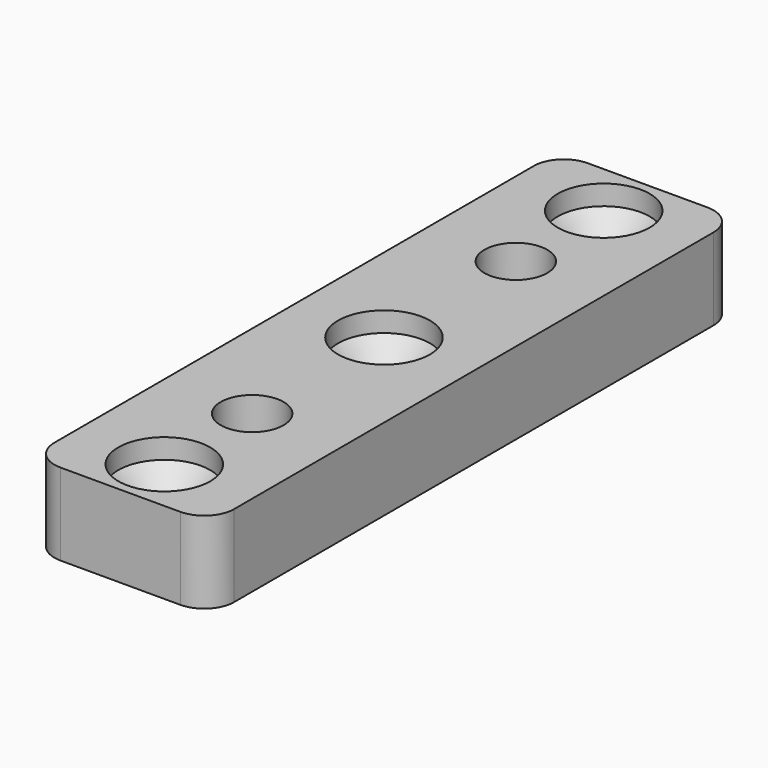
from build123d import *

# Parameters (mm, degrees)
SKETCH009_R   = 2.5
PAD009_DEPTH  = 4.2
SKETCH010_R   = 2.5
SKETCH010_R_2 = 3.15
PAD010_DEPTH  = 4
SKETCH011_R   = 4.6
HOLE_DEPTH    = 2
HOLE_TIPS_R   = 4.6


with BuildPart() as part:
    # Sketch009 → Pad009 (new body)
    with BuildSketch(Plane.XY):
        with BuildLine():
            Line((-9, 30), (-9, -30))
            ThreePointArc((-9, -30), (-8.12132, -32.12132), (-6, -33))
            Line((-6, -33), (6, -33))
            ThreePointArc((6, -33), (8.12132, -32.12132), (9, -30))
            Line((9, -30), (9, 30))
            ThreePointArc((9, 30), (8.12132, 32.12132), (6, 33))
            Line((6, 33), (-6, 33))
            ThreePointArc((-6, 33), (-8.12132, 32.12132), (-9, 30))
        make_face()
        with Locations((0, 27.5)):
            Circle(SKETCH009_R, mode=Mode.SUBTRACT)
        with Locations((0, -27.5)):
            Circle(SKETCH009_R, mode=Mode.SUBTRACT)
        Circle(SKETCH009_R, mode=Mode.SUBTRACT)
        Polygon((3.002221, 11.3), (6.004443, 16.5), (3.002221, 21.7), (-3.002221, 21.7), (-6.004443, 16.5), (-3.002221, 11.3), align=None, mode=Mode.SUBTRACT)
        Polygon((-3.002221, -21.7), (3.002221, -21.7), (6.004443, -16.5), (3.002221, -11.3), (-3.002221, -11.3), (-6.004443, -16.5), align=None, mode=Mode.SUBTRACT)
    extrude(amount=PAD009_DEPTH)

    # Sketch010 (on Face25 of Pad009) → Pad010 (join)
    with BuildSketch(Plane.XY.offset(4.2)):
        with BuildLine():
            Line((-9, 30), (-9, -30))
            ThreePointArc((-9, -30), (-8.12132, -32.12132), (-6, -33))
            Line((-6, -33), (6, -33))
            ThreePointArc((6, -33), (8.12132, -32.12132), (9, -30))
            Line((9, -30), (9, 30))
            ThreePointArc((9, 30), (8.12132, 32.12132), (6, 33))
            Line((6, 33), (-6, 33))
            ThreePointArc((-6, 33), (-8.12132, 32.12132), (-9, 30))
        make_face()
        with Locations((0, 27.5)):
            Circle(SKETCH010_R, mode=Mode.SUBTRACT)
        Circle(SKETCH010_R, mode=Mode.SUBTRACT)
        with Locations((0, -27.5)):
            Circle(SKETCH010_R, mode=Mode.SUBTRACT)
        with Locations((0, 16.5)):
            Circle(SKETCH010_R_2, mode=Mode.SUBTRACT)
        with Locations((0, -16.5)):
            Circle(SKETCH010_R_2, mode=Mode.SUBTRACT)
    extrude(amount=PAD010_DEPTH)

    # Sketch011 (on Face17 of Pad010) → Hole (cut)
    with BuildSketch(Plane.XY.offset(8.2)):
        Circle(SKETCH011_R)
        with Locations((0, -27.5)):
            Circle(SKETCH011_R)
        with Locations((0, 27.5)):
            Circle(SKETCH011_R)
    extrude(amount=-HOLE_DEPTH, mode=Mode.SUBTRACT)

    # Hole tips → Hole tip 1 section 0
    with BuildSketch(Plane.XY.offset(6.2), mode=Mode.PRIVATE) as hole_tip_1_s0:
        Circle(HOLE_TIPS_R)
    loft([hole_tip_1_s0.sketch, Vertex(0, 0, 1.6)], mode=Mode.SUBTRACT)

    # Hole tips → Hole tip 2 section 0
    with BuildSketch(Plane.XY.offset(6.2), mode=Mode.PRIVATE) as hole_tip_2_s0:
        with Locations((0, -27.5)):
            Circle(HOLE_TIPS_R)
    loft([hole_tip_2_s0.sketch, Vertex(0, -27.5, 1.6)], mode=Mode.SUBTRACT)

    # Hole tips → Hole tip 3 section 0
    with BuildSketch(Plane.XY.offset(6.2), mode=Mode.PRIVATE) as hole_tip_3_s0:
        with Locations((0, 27.5)):
            Circle(HOLE_TIPS_R)
    loft([hole_tip_3_s0.sketch, Vertex(0, 27.5, 1.6)], mode=Mode.SUBTRACT)


solid = part.part
